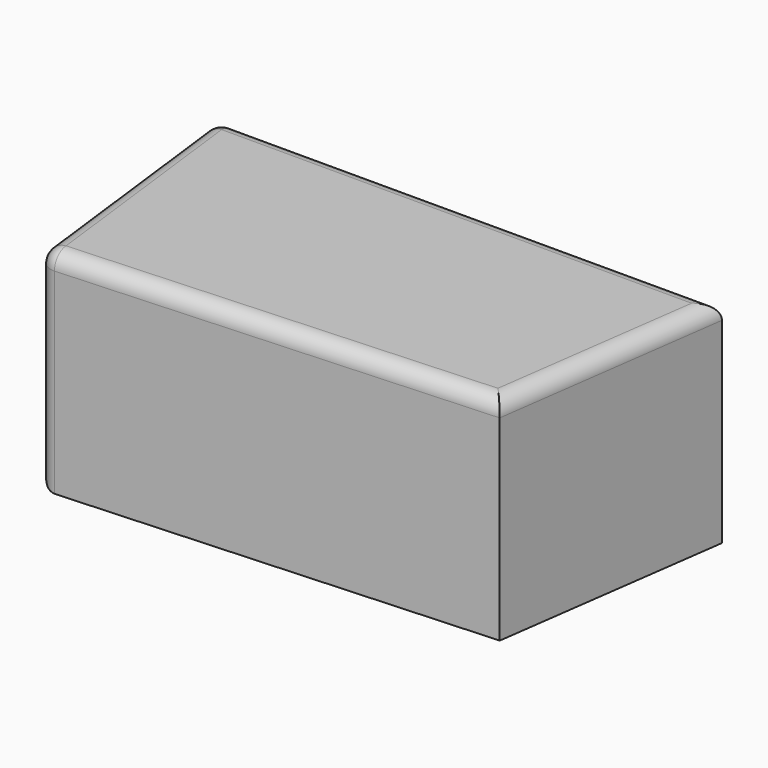
from build123d import *

# Parameters (mm, degrees)
F1_DEPTH = 68.97317
F2_R     = 5.08


with BuildPart() as f1:
    # F0 (on Top) → F1 (new body)
    with BuildSketch(Plane.XY):
        Polygon((0, 0), (143.774033, 7.85425), (154.337034, 85.148476), (-10.384366, 85.148476), align=None)
    extrude(amount=F1_DEPTH)

    # F2
    f2_edges = [f1.edges().sort_by_distance(p)[0] for p in [
        (-10.384366, 85.148476, 34.486585),
        (0, 0, 34.486585),
        (-5.192183, 42.574238, 0),
        (-5.192183, 42.574238, 68.97317),
        (71.976334, 85.148476, 68.97317),
        (71.887016, 3.927125, 68.97317),
        (149.055533, 46.501363, 68.97317),
    ]]
    fillet(f2_edges, radius=F2_R)


solid = f1.part
